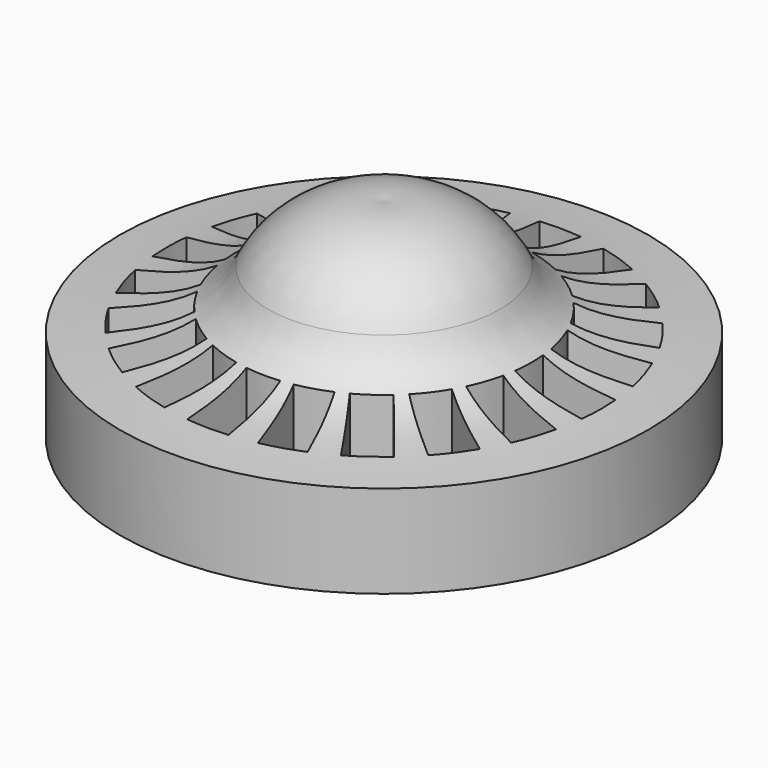
from build123d import *

# Parameters (mm, degrees)
F0_R     = 11.4
F1_DEPTH = 4
F5_DEPTH = 25


with BuildPart() as f1:
    # F0 (on Top) → F1 (new body)
    with BuildSketch(Plane.XY):
        Circle(F0_R)
    extrude(amount=F1_DEPTH)

    # F2 (on Front) → F3 (revolve)
    with BuildSketch(Plane.XZ):
        with BuildLine():
            Line((0, 9), (0, 4))
            Line((0, 4), (11.4, 4))
            add(Edge.make_bspline(
                [(5, 6.5), (5.120765461, 6.2386105343), (5.3963027123, 5.6422269795), (6.6489059699, 4.6845343324), (8.6412931301, 4.1902694909), (10.4330580482, 4.0666905045), (11.4, 4)],
                knots=[0, 0, 0, 0, 0.1802006585, 0.4111439955, 0.6822185943, 1, 1, 1, 1], degree=3))
            ThreePointArc((5, 6.5), (2.8820183557, 8.5140367115), (0, 9))
        make_face()
    revolve(axis=Axis((0, 0, 6.5), (0, 0, 1)))

    # F4 (on face) → F5 (cut)
    with BuildSketch(Plane(origin=(0, 0, 0), x_dir=(1, 0, 0), z_dir=(0, 0, -1))):
        with BuildLine():
            Line((0.6227900937, 6.3696257739), (0.7799067497, 9.367590163))
            ThreePointArc((0.7799067497, 9.367590163), (-0.1195269423, 9.399240039), (-1.0178649491, 9.3447285111))
            Line((-1.0178649491, 9.3447285111), (-0.8604927826, 6.3418886912))
            ThreePointArc((-0.8604927826, 6.3418886912), (-0.1196577557, 6.3988813102), (0.6227900937, 6.3696257739))
        make_face()
        with BuildLine():
            Line((-1.376014035, 6.2503268215), (-2.1530091603, 9.1501121062))
            ThreePointArc((-2.1530091603, 9.1501121062), (-3.0182017836, 8.9022726308), (-3.8557270103, 8.5728273762))
            Line((-3.8557270103, 8.5728273762), (-2.7781286501, 5.765587672))
            ThreePointArc((-2.7781286501, 5.765587672), (-2.0911643582, 6.048721487), (-1.376014035, 6.2503268215))
        make_face()
        with BuildLine():
            Line((-3.2401243228, 5.5192023312), (-4.8751735328, 8.0369573238))
            ThreePointArc((-4.8751735328, 8.0369573238), (-5.6214340053, 7.5338887518), (-6.3161636473, 6.9617581674))
            Line((-6.3161636473, 6.9617581674), (-4.423821929, 4.6249107603))
            ThreePointArc((-4.423821929, 4.6249107603), (-3.8579732232, 5.1064706608), (-3.2401243228, 5.5192023312))
        make_face()
        with BuildLine():
            Line((-4.7870686665, 4.2478198623), (-7.1201219525, 6.1370891619))
            ThreePointArc((-7.1201219525, 6.1370891619), (-7.6744010997, 5.42803535), (-8.1583301792, 4.6692235637))
            Line((-8.1583301792, 4.6692235637), (-5.6364806949, 3.0315153597))
            ThreePointArc((-5.6364806949, 3.0315153597), (-5.2471367891, 3.6643629074), (-4.7870686665, 4.2478198623))
        make_face()
        with BuildLine():
            Line((-5.8654213757, 2.5606311889), (-8.6681032268, 3.6364799531))
            ThreePointArc((-8.6681032268, 3.6364799531), (-8.9761443437, 2.7908480289), (-9.2019025107, 1.9196328252))
            Line((-9.2019025107, 1.9196328252), (-6.2974014587, 1.1413741139))
            ThreePointArc((-6.2974014587, 1.1413741139), (-6.1226740471, 1.8635617815), (-5.8654213757, 2.5606311889))
        make_face()
        with BuildLine():
            Line((-6.3696257739, 0.6227900937), (-9.367590163, 0.7799067497))
            ThreePointArc((-9.367590163, 0.7799067497), (-9.399240039, -0.1195269423), (-9.3447285111, -1.0178649491))
            Line((-9.3447285111, -1.0178649491), (-6.3418886912, -0.8604927826))
            ThreePointArc((-6.3418886912, -0.8604927826), (-6.3988813102, -0.1196577557), (-6.3696257739, 0.6227900937))
        make_face()
        with BuildLine():
            Line((-6.2503268215, -1.376014035), (-9.1501121062, -2.1530091603))
            ThreePointArc((-9.1501121062, -2.1530091603), (-8.9022726308, -3.0182017836), (-8.5728273762, -3.8557270103))
            Line((-8.5728273762, -3.8557270103), (-5.765587672, -2.7781286501))
            ThreePointArc((-5.765587672, -2.7781286501), (-6.048721487, -2.0911643582), (-6.2503268215, -1.376014035))
        make_face()
        with BuildLine():
            Line((-5.5192023312, -3.2401243228), (-8.0369573238, -4.8751735328))
            ThreePointArc((-8.0369573238, -4.8751735328), (-7.5338887518, -5.6214340053), (-6.9617581674, -6.3161636473))
            Line((-6.9617581674, -6.3161636473), (-4.6249107603, -4.423821929))
            ThreePointArc((-4.6249107603, -4.423821929), (-5.1064706608, -3.8579732232), (-5.5192023312, -3.2401243228))
        make_face()
        with BuildLine():
            Line((-4.2478198623, -4.7870686665), (-6.1370891619, -7.1201219525))
            ThreePointArc((-6.1370891619, -7.1201219525), (-5.42803535, -7.6744010997), (-4.6692235637, -8.1583301792))
            Line((-4.6692235637, -8.1583301792), (-3.0315153597, -5.6364806949))
            ThreePointArc((-3.0315153597, -5.6364806949), (-3.6643629074, -5.2471367891), (-4.2478198623, -4.7870686665))
        make_face()
        with BuildLine():
            Line((-2.5606311889, -5.8654213757), (-3.6364799531, -8.6681032268))
            ThreePointArc((-3.6364799531, -8.6681032268), (-2.7908480289, -8.9761443437), (-1.9196328252, -9.2019025107))
            Line((-1.9196328252, -9.2019025107), (-1.1413741139, -6.2974014587))
            ThreePointArc((-1.1413741139, -6.2974014587), (-1.8635617815, -6.1226740471), (-2.5606311889, -5.8654213757))
        make_face()
        with BuildLine():
            Line((-0.6227900937, -6.3696257739), (-0.7799067497, -9.367590163))
            ThreePointArc((-0.7799067497, -9.367590163), (0.1195269423, -9.399240039), (1.0178649491, -9.3447285111))
            Line((1.0178649491, -9.3447285111), (0.8604927826, -6.3418886912))
            ThreePointArc((0.8604927826, -6.3418886912), (0.1196577557, -6.3988813102), (-0.6227900937, -6.3696257739))
        make_face()
        with BuildLine():
            Line((1.376014035, -6.2503268215), (2.1530091603, -9.1501121062))
            ThreePointArc((2.1530091603, -9.1501121062), (3.0182017836, -8.9022726308), (3.8557270103, -8.5728273762))
            Line((3.8557270103, -8.5728273762), (2.7781286501, -5.765587672))
            ThreePointArc((2.7781286501, -5.765587672), (2.0911643582, -6.048721487), (1.376014035, -6.2503268215))
        make_face()
        with BuildLine():
            Line((3.2401243228, -5.5192023312), (4.8751735328, -8.0369573238))
            ThreePointArc((4.8751735328, -8.0369573238), (5.6214340053, -7.5338887518), (6.3161636473, -6.9617581674))
            Line((6.3161636473, -6.9617581674), (4.423821929, -4.6249107603))
            ThreePointArc((4.423821929, -4.6249107603), (3.8579732232, -5.1064706608), (3.2401243228, -5.5192023312))
        make_face()
        with BuildLine():
            Line((4.7870686665, -4.2478198623), (7.1201219525, -6.1370891619))
            ThreePointArc((7.1201219525, -6.1370891619), (7.6744010997, -5.42803535), (8.1583301792, -4.6692235637))
            Line((8.1583301792, -4.6692235637), (5.6364806949, -3.0315153597))
            ThreePointArc((5.6364806949, -3.0315153597), (5.2471367891, -3.6643629074), (4.7870686665, -4.2478198623))
        make_face()
        with BuildLine():
            Line((5.8654213757, -2.5606311889), (8.6681032268, -3.6364799531))
            ThreePointArc((8.6681032268, -3.6364799531), (8.9761443437, -2.7908480289), (9.2019025107, -1.9196328252))
            Line((9.2019025107, -1.9196328252), (6.2974014587, -1.1413741139))
            ThreePointArc((6.2974014587, -1.1413741139), (6.1226740471, -1.8635617815), (5.8654213757, -2.5606311889))
        make_face()
        with BuildLine():
            Line((6.3696257739, -0.6227900937), (9.367590163, -0.7799067497))
            ThreePointArc((9.367590163, -0.7799067497), (9.399240039, 0.1195269423), (9.3447285111, 1.0178649491))
            Line((9.3447285111, 1.0178649491), (6.3418886912, 0.8604927826))
            ThreePointArc((6.3418886912, 0.8604927826), (6.3988813102, 0.1196577557), (6.3696257739, -0.6227900937))
        make_face()
        with BuildLine():
            Line((6.2503268215, 1.376014035), (9.1501121062, 2.1530091603))
            ThreePointArc((9.1501121062, 2.1530091603), (8.9022726308, 3.0182017836), (8.5728273762, 3.8557270103))
            Line((8.5728273762, 3.8557270103), (5.765587672, 2.7781286501))
            ThreePointArc((5.765587672, 2.7781286501), (6.048721487, 2.0911643582), (6.2503268215, 1.376014035))
        make_face()
        with BuildLine():
            Line((5.5192023312, 3.2401243228), (8.0369573238, 4.8751735328))
            ThreePointArc((8.0369573238, 4.8751735328), (7.5338887518, 5.6214340053), (6.9617581674, 6.3161636473))
            Line((6.9617581674, 6.3161636473), (4.6249107603, 4.423821929))
            ThreePointArc((4.6249107603, 4.423821929), (5.1064706608, 3.8579732232), (5.5192023312, 3.2401243228))
        make_face()
        with BuildLine():
            Line((4.2478198623, 4.7870686665), (6.1370891619, 7.1201219525))
            ThreePointArc((6.1370891619, 7.1201219525), (5.42803535, 7.6744010997), (4.6692235637, 8.1583301792))
            Line((4.6692235637, 8.1583301792), (3.0315153597, 5.6364806949))
            ThreePointArc((3.0315153597, 5.6364806949), (3.6643629074, 5.2471367891), (4.2478198623, 4.7870686665))
        make_face()
        with BuildLine():
            Line((2.5606311889, 5.8654213757), (3.6364799531, 8.6681032268))
            ThreePointArc((3.6364799531, 8.6681032268), (2.7908480289, 8.9761443437), (1.9196328252, 9.2019025107))
            Line((1.9196328252, 9.2019025107), (1.1413741139, 6.2974014587))
            ThreePointArc((1.1413741139, 6.2974014587), (1.8635617815, 6.1226740471), (2.5606311889, 5.8654213757))
        make_face()
    extrude(amount=-F5_DEPTH, mode=Mode.SUBTRACT)


solid = f1.part
